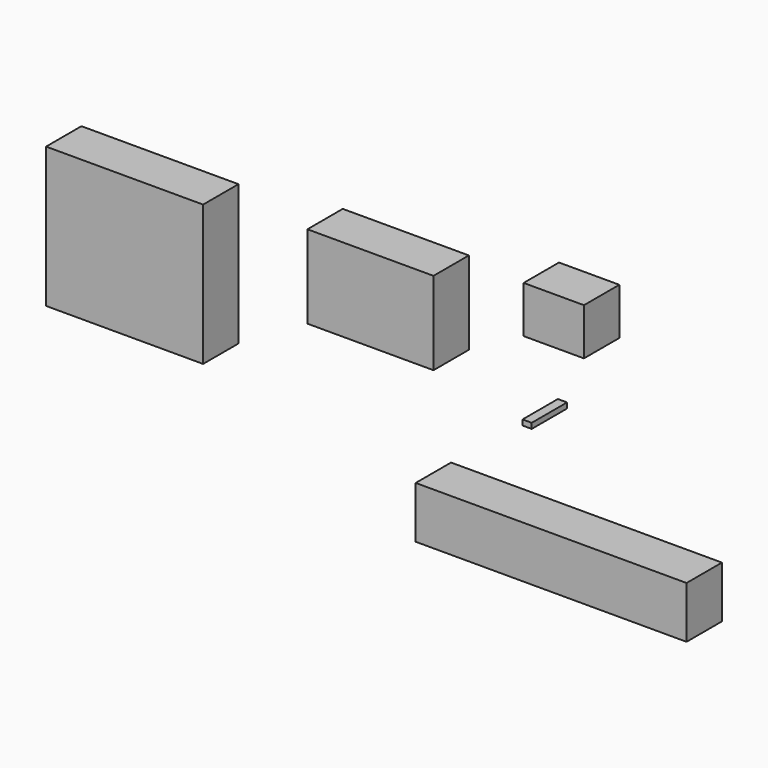
from build123d import *

# Parameters (mm, degrees)
F0_W     = 72.451453
F0_H     = 47.747904
F0_W_2   = 34.658712
F0_H_2   = 26.915806
F0_W_3   = 90.223565
F0_H_3   = 80.612129
F0_W_4   = 5.270794
F0_H_4   = 3.100468
F0_W_5   = 155.643415
F0_H_5   = 29.764488
F1_DEPTH = 25.4


with BuildPart() as f1:
    # F0 (on Front) → F1 (new body)
    with BuildSketch(Plane.XZ):
        with Locations((-52.448952, 5.254113)):
            Rectangle(F0_W, F0_H)
        with Locations((52.909838, 28.943709)):
            Rectangle(F0_W_2, F0_H_2)
        with Locations((-193.718322, -18.182479)):
            Rectangle(F0_W_3, F0_H_3)
        with Locations((37.576474, -28.414019)):
            Rectangle(F0_W_4, F0_H_4)
        with Locations((51.373551, -93.833864)):
            Rectangle(F0_W_5, F0_H_5)
    extrude(amount=F1_DEPTH)


solid = f1.part
